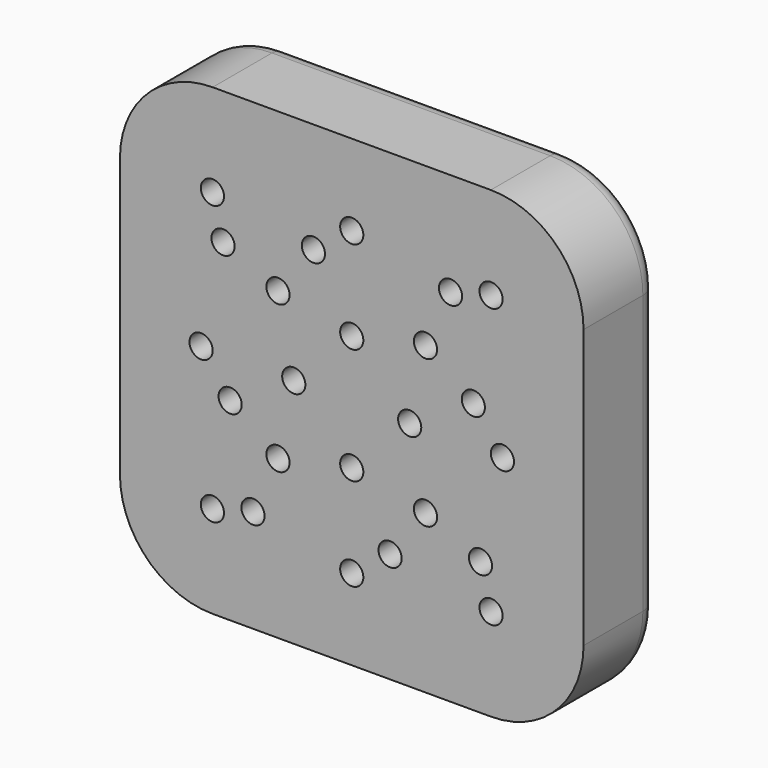
from build123d import *

# Parameters (mm, degrees)
F0_W     = 127
F0_H     = 127
F0_R     = 3.175
F1_DEPTH = 25.4
F2_R     = 25.4
F3_R     = 5.08
F4_R     = 2.54


with BuildPart() as f1:
    # F0 (on Front) → F1 (new body)
    with BuildSketch(Plane.XZ):
        Rectangle(F0_W, F0_H)
        with Locations((-38.1660885145, -38.1660885145)):
            Circle(F0_R, mode=Mode.SUBTRACT)
        with Locations((-27.0594455194, -35.2645559759)):
            Circle(F0_R, mode=Mode.SUBTRACT)
        with Locations((-33.3085645049, -10.5021500477)):
            Circle(F0_R, mode=Mode.SUBTRACT)
        with Locations((-20.2055762724, -20.2055762724)):
            Circle(F0_R, mode=Mode.SUBTRACT)
        with Locations((0, -41.275)):
            Circle(F0_R, mode=Mode.SUBTRACT)
        with Locations((10.5021500477, -33.3085645049)):
            Circle(F0_R, mode=Mode.SUBTRACT)
        with Locations((38.1660885145, -38.1660885145)):
            Circle(F0_R, mode=Mode.SUBTRACT)
        with Locations((20.2055762724, -20.2055762724)):
            Circle(F0_R, mode=Mode.SUBTRACT)
        with Locations((0, -15.875)):
            Circle(F0_R, mode=Mode.SUBTRACT)
        with Locations((35.2645559759, -27.0594455194)):
            Circle(F0_R, mode=Mode.SUBTRACT)
        with Locations((-41.275, 0)):
            Circle(F0_R, mode=Mode.SUBTRACT)
        with Locations((-35.2645559759, 27.0594455194)):
            Circle(F0_R, mode=Mode.SUBTRACT)
        with Locations((-15.875, 0)):
            Circle(F0_R, mode=Mode.SUBTRACT)
        with Locations((-20.2055762724, 20.2055762724)):
            Circle(F0_R, mode=Mode.SUBTRACT)
        with Locations((-38.1660885145, 38.1660885145)):
            Circle(F0_R, mode=Mode.SUBTRACT)
        with Locations((-10.5021500477, 33.3085645049)):
            Circle(F0_R, mode=Mode.SUBTRACT)
        with Locations((15.875, 0)):
            Circle(F0_R, mode=Mode.SUBTRACT)
        with Locations((0, 15.875)):
            Circle(F0_R, mode=Mode.SUBTRACT)
        with Locations((20.2055762724, 20.2055762724)):
            Circle(F0_R, mode=Mode.SUBTRACT)
        with Locations((41.275, 0)):
            Circle(F0_R, mode=Mode.SUBTRACT)
        with Locations((33.3085645049, 10.5021500477)):
            Circle(F0_R, mode=Mode.SUBTRACT)
        with Locations((0, 41.275)):
            Circle(F0_R, mode=Mode.SUBTRACT)
        with Locations((27.0594455194, 35.2645559759)):
            Circle(F0_R, mode=Mode.SUBTRACT)
        with Locations((38.1660885145, 38.1660885145)):
            Circle(F0_R, mode=Mode.SUBTRACT)
    extrude(amount=F1_DEPTH)

    # F2
    f2_edges = [f1.edges().sort_by_distance(p)[0] for p in [
        (-63.5, -12.7, -63.5),
        (-63.5, -12.7, 63.5),
        (63.5, -12.7, 63.5),
        (63.5, -12.7, -63.5),
    ]]
    fillet(f2_edges, radius=F2_R)

    # F3
    f3_edges = [f1.edges().sort_by_distance(p)[0] for p in [
        (-56.060512, 0, -56.060512),
        (0, 0, -63.5),
        (56.060512, 0, -56.060512),
        (63.5, 0, 0),
        (-63.5, 0, 0),
        (-56.060512, 0, 56.060512),
        (0, 0, 63.5),
        (56.060512, 0, 56.060512),
    ]]
    fillet(f3_edges, radius=F3_R)

    # F4
    f4_edges = [f1.edges().sort_by_distance(p)[0] for p in [
        (-41.341089, 0, -38.166089),
        (-30.234446, 0, -35.264556),
        (-3.175, 0, -41.275),
        (7.32715, 0, -33.308565),
        (34.991089, 0, -38.166089),
        (32.089556, 0, -27.059446),
        (17.030576, 0, -20.205576),
        (-3.175, 0, -15.875),
        (-23.380576, 0, -20.205576),
        (-36.483565, 0, -10.50215),
        (-44.45, 0, 0),
        (-19.05, 0, 0),
        (12.7, 0, 0),
        (38.1, 0, 0),
        (30.133565, 0, 10.50215),
        (17.030576, 0, 20.205576),
        (23.884446, 0, 35.264556),
        (34.991089, 0, 38.166089),
        (-3.175, 0, 15.875),
        (-13.67715, 0, 33.308565),
        (-3.175, 0, 41.275),
        (-23.380576, 0, 20.205576),
        (-38.439556, 0, 27.059446),
        (-41.341089, 0, 38.166089),
    ]]
    fillet(f4_edges, radius=F4_R)


solid = f1.part
